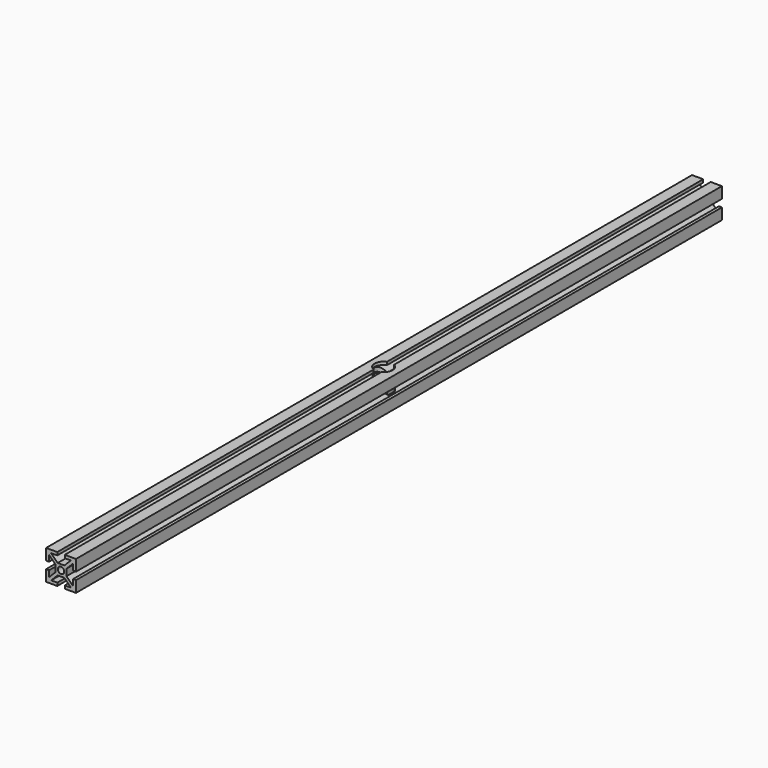
from build123d import *

# Parameters (mm, degrees)
F1_DEPTH      = 270
F1_DEPTH_BACK = 270
F2_R          = 6
F3_DEPTH      = 25
F3_DEPTH_BACK = 25


with BuildPart() as f1:
    # F0 (on Front) → F1 (new body, two sides)
    with BuildSketch(Plane.XZ) as f1_sk:
        Polygon((-2.2380451747, 9.7684033074), (-9.7380451747, 9.7684033074), (-9.7380451747, 2.2684033074), (-7.7380451747, 2.2684033074), (-7.7380451747, 6.354189745), (-3.3880451747, 2.004189745), (-3.3880451747, -0.2315966926), (-3.3880451747, -2.4673831302), (-7.7380451747, -6.8173831302), (-7.7380451747, -2.7315966926), (-9.7380451747, -2.7315966926), (-9.7380451747, -10.2315966926), (-2.2380451747, -10.2315966926), (-2.2380451747, -8.2315966926), (-6.3238316124, -8.2315966926), (-1.9738316124, -3.8815966926), (2.4977412629, -3.8815966926), (6.8477412629, -8.2315966926), (2.7619548253, -8.2315966926), (2.7619548253, -10.2315966926), (10.2619548253, -10.2315966926), (10.2619548253, -2.7315966926), (8.2619548253, -2.7315966926), (8.2619548253, -6.8173831302), (3.9119548253, -2.4673831302), (3.9119548253, -0.2315966926), (3.9119548253, 2.004189745), (8.2619548253, 6.354189745), (8.2619548253, 2.2684033074), (10.2619548253, 2.2684033074), (10.2619548253, 9.7684033074), (2.7619548253, 9.7684033074), (2.7619548253, 7.7684033074), (6.8477412629, 7.7684033074), (2.4977412629, 3.4184033074), (-1.9738316124, 3.4184033074), (-6.3238316124, 7.7684033074), (-2.2380451747, 7.7684033074), align=None)
        with BuildLine():
            ThreePointArc((-1.8880451747, -0.2315966926), (0.2619548253, 1.9184033074), (2.4119548253, -0.2315966926))
            ThreePointArc((2.4119548253, -0.2315966926), (0.2619548253, -2.3815966926), (-1.8880451747, -0.2315966926))
        make_face(mode=Mode.SUBTRACT)
    extrude(amount=F1_DEPTH)
    extrude(f1_sk.sketch, amount=-F1_DEPTH_BACK)

    # F2 (on Top) → F3 (cut, two sides)
    with BuildSketch(Plane.XY) as f3_sk:
        Circle(F2_R)
    extrude(amount=-F3_DEPTH, mode=Mode.SUBTRACT)
    extrude(f3_sk.sketch, amount=F3_DEPTH_BACK, mode=Mode.SUBTRACT)


solid = f1.part
